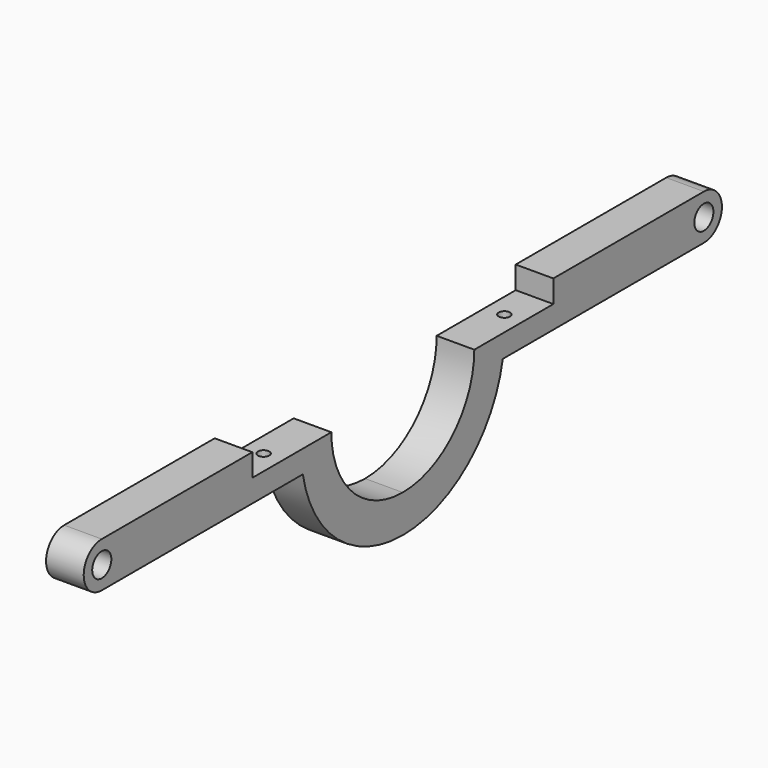
from build123d import *

# Parameters (mm, degrees)
F0_R     = 3.175
F1_DEPTH = 10
F2_R     = 1.5
F3_DEPTH = 25


with BuildPart() as f1:
    # F0 (on Right) → F1 (new body)
    with BuildSketch(Plane.YZ):
        with BuildLine():
            ThreePointArc((0, -23.75), (-16.793786, -16.793786), (-23.75, 0))
            Line((-23.75, 0), (-50, 0))
            Line((-50, 0), (-50, 6))
            Line((-50, 6), (-100, 6))
            ThreePointArc((-100, 6), (-106, 0), (-100, -6))
            Line((-100, -6), (-33.212385, -6))
            ThreePointArc((-33.212385, -6), (-21.639807, -25.899445), (0, -33.75))
            ThreePointArc((0, -33.75), (21.639807, -25.899445), (33.212385, -6))
            Line((33.212385, -6), (100, -6))
            ThreePointArc((100, -6), (106, 0), (100, 6))
            Line((100, 6), (50, 6))
            Line((50, 6), (50, 0))
            Line((50, 0), (23.75, 0))
            ThreePointArc((23.75, 0), (16.793786, -16.793786), (0, -23.75))
        make_face()
        with Locations((-100, 0)):
            Circle(F0_R, mode=Mode.SUBTRACT)
        with Locations((100, 0)):
            Circle(F0_R, mode=Mode.SUBTRACT)
    extrude(amount=F1_DEPTH)

    # F2 (on face) → F3 (cut)
    with BuildSketch(Plane(origin=(0, 0, -6), x_dir=(1, 0, 0), z_dir=(0, 0, -1))):
        with Locations((5, 40)):
            Circle(F2_R)
        with Locations((5, -40)):
            Circle(F2_R)
    extrude(amount=-F3_DEPTH, mode=Mode.SUBTRACT)


solid = f1.part
